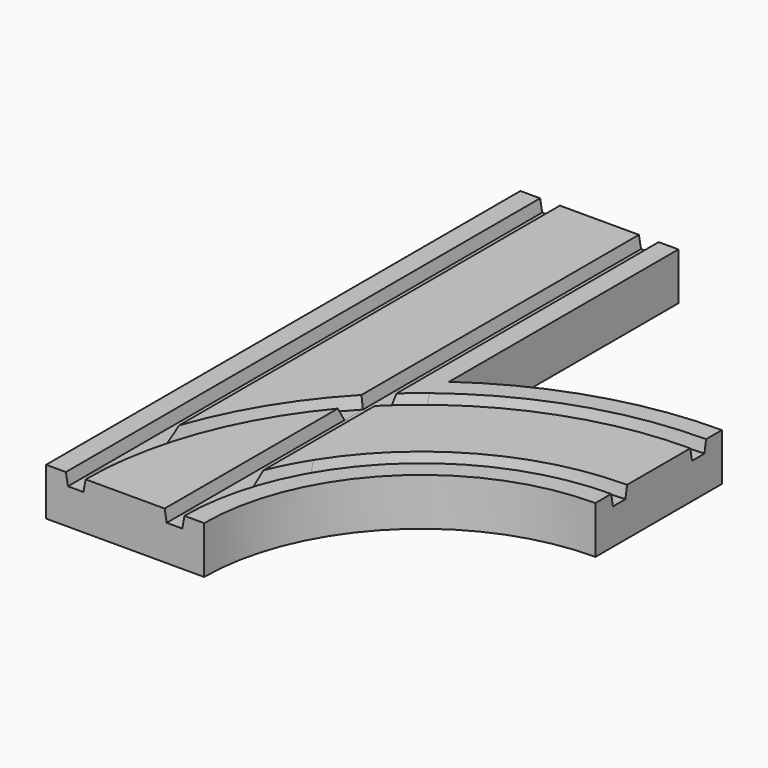
from build123d import *

# Parameters (mm, degrees)
F1_DEPTH = 150
F5_DEPTH = 150


with BuildPart() as f1:
    # F0 (on Front) → F1 (new body)
    with BuildSketch(Plane.XZ):
        Polygon((-15, 2.7359369216), (-20, 2.7359369216), (-20, -9.2640630784), (20, -9.2640630784), (20, 2.7359369216), (15, 2.7359369216), (14.4710190579, -0.2640630784), (10.5289809421, -0.2640630784), (10, 2.7359369216), (-10, 2.7359369216), (-10.5289809421, -0.2640630784), (-14.4710190579, -0.2640630784), align=None)
    extrude(amount=-F1_DEPTH)

    # F3: sweep along a path in F2
    with BuildLine(Plane.XY) as f3_path:
        ThreePointArc((75, 75), (21.966991411, 53.033008589), (0, 0))
    # F0 (on Front) → F3 (sweep)
    with BuildSketch(Plane.XZ):
        Polygon((-15, 2.7359369216), (-20, 2.7359369216), (-20, -9.2640630784), (20, -9.2640630784), (20, 2.7359369216), (15, 2.7359369216), (14.4710190579, -0.2640630784), (10.5289809421, -0.2640630784), (10, 2.7359369216), (-10, 2.7359369216), (-10.5289809421, -0.2640630784), (-14.4710190579, -0.2640630784), align=None)
    sweep(path=f3_path.line)

    # F4 (on face) → F5 (cut, through all)
    with BuildSketch(Plane.XZ):
        Polygon((-10, 2.7359369216), (-15, 2.7359369216), (-14.4710190579, -0.2640630784), (-10.5289809421, -0.2640630784), align=None)
        Polygon((15, 2.7359369216), (10, 2.7359369216), (10.5289809421, -0.2640630784), (14.4710190579, -0.2640630784), align=None)
    extrude(amount=-F5_DEPTH, mode=Mode.SUBTRACT)

    # F6: sweep along a path in F2
    with BuildLine(Plane.XY) as f6_path:
        ThreePointArc((75, 75), (21.966991411, 53.033008589), (0, 0))
    # F4 (on face) → F6 (sweep, cut)
    with BuildSketch(Plane.XZ):
        Polygon((-10, 2.7359369216), (-15, 2.7359369216), (-14.4710190579, -0.2640630784), (-10.5289809421, -0.2640630784), align=None)
        Polygon((15, 2.7359369216), (10, 2.7359369216), (10.5289809421, -0.2640630784), (14.4710190579, -0.2640630784), align=None)
    sweep(path=f6_path.line, mode=Mode.SUBTRACT)


solid = f1.part
